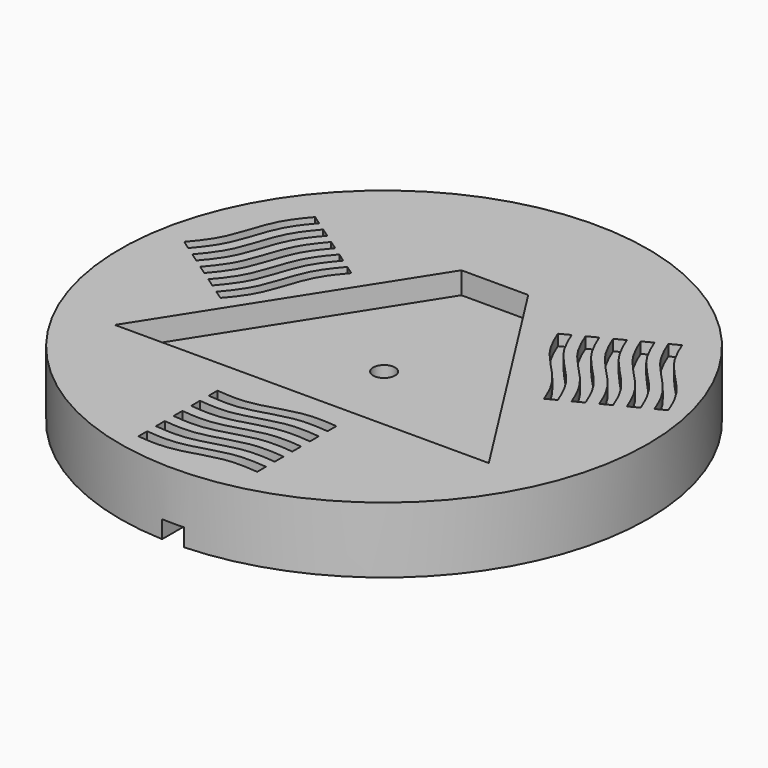
from build123d import *

# Parameters (mm, degrees)
F0_R     = 76.2
F0_R_2   = 3.175
F1_DEPTH = 19.05
F3_DEPTH = 6.35
F5_DEPTH = 3.175
F6_W     = 6.35
F6_H     = 80.5422738194
F7_DEPTH = 5.08


with BuildPart() as f1:
    # F0 (on Top) → F1 (new body)
    with BuildSketch(Plane.XY):
        Circle(F0_R)
        Circle(F0_R_2, mode=Mode.SUBTRACT)
    extrude(amount=F1_DEPTH)

    # F2 (on face) → F3 (cut)
    with BuildSketch(Plane.XY.offset(19.05)):
        Polygon((9.652, 39.9661194726), (-9.652, 39.9661194726), (-53.975, -29.6756364717), (53.975, -29.6756364717), align=None)
    extrude(amount=-F3_DEPTH, mode=Mode.SUBTRACT)

    # F4 (on face) → F5 (cut)
    with BuildSketch(Plane.XY.offset(19.05)):
        with BuildLine():
            Line((-15.875, -65.6446859638), (-15.875, -68.8196859638))
            add(Edge.make_bspline(
                [(-15.875, -68.8196859638), (-12.8374470565, -69.104257774), (-6.2388655329, -69.722442979), (6.2388655329, -64.7419289487), (12.8374470565, -65.3601141536), (15.875, -65.6446859638)],
                knots=[0, 0, 0, 0, 0.3152252549, 0.6847747451, 1, 1, 1, 1], degree=3))
            Line((15.875, -65.6446859638), (15.875, -62.4696859638))
            add(Edge.make_bspline(
                [(-15.875, -65.6446859638), (-12.8374470565, -65.929257774), (-6.2388655329, -66.547442979), (6.2388655329, -61.5669289487), (12.8374470565, -62.1851141536), (15.875, -62.4696859638)],
                knots=[0, 0, 0, 0, 0.3152252549, 0.6847747451, 1, 1, 1, 1], degree=3))
        make_face()
        with BuildLine():
            Line((-15.875, -59.2946859638), (-15.875, -62.4696859638))
            add(Edge.make_bspline(
                [(-15.875, -62.4696859638), (-12.8374470565, -62.754257774), (-6.2388655329, -63.372442979), (6.2388655329, -58.3919289487), (12.8374470565, -59.0101141536), (15.875, -59.2946859638)],
                knots=[0, 0, 0, 0, 0.3152252549, 0.6847747451, 1, 1, 1, 1], degree=3))
            Line((15.875, -59.2946859638), (15.875, -56.1196859638))
            add(Edge.make_bspline(
                [(-15.875, -59.2946859638), (-12.8374470565, -59.579257774), (-6.2388655329, -60.197442979), (6.2388655329, -55.2169289487), (12.8374470565, -55.8351141536), (15.875, -56.1196859638)],
                knots=[0, 0, 0, 0, 0.3152252549, 0.6847747451, 1, 1, 1, 1], degree=3))
        make_face()
        with BuildLine():
            Line((-15.875, -52.9446859638), (-15.875, -56.1196859638))
            add(Edge.make_bspline(
                [(-15.875, -56.1196859638), (-12.8374470565, -56.404257774), (-6.2388655329, -57.022442979), (6.2388655329, -52.0419289487), (12.8374470565, -52.6601141536), (15.875, -52.9446859638)],
                knots=[0, 0, 0, 0, 0.3152252549, 0.6847747451, 1, 1, 1, 1], degree=3))
            Line((15.875, -52.9446859638), (15.875, -49.7696859638))
            add(Edge.make_bspline(
                [(-15.875, -52.9446859638), (-12.8374470565, -53.229257774), (-6.2388655329, -53.847442979), (6.2388655329, -48.8669289487), (12.8374470565, -49.4851141536), (15.875, -49.7696859638)],
                knots=[0, 0, 0, 0, 0.3152252549, 0.6847747451, 1, 1, 1, 1], degree=3))
        make_face()
        with BuildLine():
            Line((-15.875, -46.5946859638), (-15.875, -49.7696859638))
            add(Edge.make_bspline(
                [(-15.875, -49.7696859638), (-12.8374470565, -50.054257774), (-6.2388655329, -50.672442979), (6.2388655329, -45.6919289487), (12.8374470565, -46.3101141536), (15.875, -46.5946859638)],
                knots=[0, 0, 0, 0, 0.3152252549, 0.6847747451, 1, 1, 1, 1], degree=3))
            Line((15.875, -46.5946859638), (15.875, -43.4196859638))
            add(Edge.make_bspline(
                [(-15.875, -46.5946859638), (-12.8374470565, -46.879257774), (-6.2388655329, -47.497442979), (6.2388655329, -42.5169289487), (12.8374470565, -43.1351141536), (15.875, -43.4196859638)],
                knots=[0, 0, 0, 0, 0.3152252549, 0.6847747451, 1, 1, 1, 1], degree=3))
        make_face()
        with BuildLine():
            Line((-15.875, -40.2446859638), (-15.875, -43.4196859638))
            add(Edge.make_bspline(
                [(-15.875, -43.4196859638), (-12.8374470565, -43.704257774), (-6.2388655329, -44.322442979), (6.2388655329, -39.3419289487), (12.8374470565, -39.9601141536), (15.875, -40.2446859638)],
                knots=[0, 0, 0, 0, 0.3152252549, 0.6847747451, 1, 1, 1, 1], degree=3))
            Line((15.875, -40.2446859638), (15.875, -37.0696859638))
            add(Edge.make_bspline(
                [(-15.875, -40.2446859638), (-12.8374470565, -40.529257774), (-6.2388655329, -41.147442979), (6.2388655329, -36.1669289487), (12.8374470565, -36.7851141536), (15.875, -37.0696859638)],
                knots=[0, 0, 0, 0, 0.3152252549, 0.6847747451, 1, 1, 1, 1], degree=3))
        make_face()
        with BuildLine():
            Line((-28.1521697055, 23.3813101817), (-30.7611201571, 25.1907306804))
            add(Edge.make_bspline(
                [(-30.7611201571, 25.1907306804), (-32.7260475003, 22.8568991665), (-36.9945272613, 17.7870360912), (-40.0129675888, 4.6955002553), (-44.2814473498, -0.37436282), (-46.246374693, -2.7081943339)],
                knots=[0, 0, 0, 0, 0.3152252549, 0.6847747451, 1, 1, 1, 1], degree=3))
            Line((-46.246374693, -2.7081943339), (-43.6374242415, -4.5176148327))
            add(Edge.make_bspline(
                [(-28.1521697055, 23.3813101817), (-30.1170970487, 21.0474786677), (-34.3855768097, 15.9776155925), (-37.4040171373, 2.8860797565), (-41.6724968983, -2.1837833187), (-43.6374242415, -4.5176148327)],
                knots=[0, 0, 0, 0, 0.3152252549, 0.6847747451, 1, 1, 1, 1], degree=3))
        make_face()
        with BuildLine():
            Line((-33.3700706086, 27.0001511792), (-35.9790210602, 28.8095716779))
            add(Edge.make_bspline(
                [(-35.9790210602, 28.8095716779), (-37.9439484034, 26.475740164), (-42.2124281644, 21.4058770887), (-45.2308684919, 8.3143412528), (-49.4993482529, 3.2444781775), (-51.4642755961, 0.9106466636)],
                knots=[0, 0, 0, 0, 0.3152252549, 0.6847747451, 1, 1, 1, 1], degree=3))
            Line((-51.4642755961, 0.9106466636), (-48.8553251446, -0.8987738352))
            add(Edge.make_bspline(
                [(-33.3700706086, 27.0001511792), (-35.3349979518, 24.6663196652), (-39.6034777128, 19.59645659), (-42.6219180404, 6.504920754), (-46.8903978014, 1.4350576788), (-48.8553251446, -0.8987738352)],
                knots=[0, 0, 0, 0, 0.3152252549, 0.6847747451, 1, 1, 1, 1], degree=3))
        make_face()
        with BuildLine():
            Line((-38.5879715117, 30.6189921767), (-41.1969219633, 32.4284126754))
            add(Edge.make_bspline(
                [(-41.1969219633, 32.4284126754), (-43.1618493065, 30.0945811615), (-47.4303290675, 25.0247180862), (-50.4487693951, 11.9331822503), (-54.7172491561, 6.863319175), (-56.6821764993, 4.5294876611)],
                knots=[0, 0, 0, 0, 0.3152252549, 0.6847747451, 1, 1, 1, 1], degree=3))
            Line((-56.6821764993, 4.5294876611), (-54.0732260477, 2.7200671623))
            add(Edge.make_bspline(
                [(-38.5879715117, 30.6189921767), (-40.5528988549, 28.2851606627), (-44.8213786159, 23.2152975875), (-47.8398189435, 10.1237617515), (-52.1082987045, 5.0538986763), (-54.0732260477, 2.7200671623)],
                knots=[0, 0, 0, 0, 0.3152252549, 0.6847747451, 1, 1, 1, 1], degree=3))
        make_face()
        with BuildLine():
            Line((-43.8058724149, 34.2378331742), (-46.4148228664, 36.0472536729))
            add(Edge.make_bspline(
                [(-46.4148228664, 36.0472536729), (-48.3797502096, 33.713422159), (-52.6482299706, 28.6435590837), (-55.6666702982, 15.5520232478), (-59.9351500592, 10.4821601725), (-61.9000774024, 8.1483286586)],
                knots=[0, 0, 0, 0, 0.3152252549, 0.6847747451, 1, 1, 1, 1], degree=3))
            Line((-61.9000774024, 8.1483286586), (-59.2911269508, 6.3389081598))
            add(Edge.make_bspline(
                [(-43.8058724149, 34.2378331742), (-45.7707997581, 31.9040016602), (-50.0392795191, 26.834138585), (-53.0577198466, 13.742602749), (-57.3261996076, 8.6727396738), (-59.2911269508, 6.3389081598)],
                knots=[0, 0, 0, 0, 0.3152252549, 0.6847747451, 1, 1, 1, 1], degree=3))
        make_face()
        with BuildLine():
            Line((-49.023773318, 37.8566741717), (-51.6327237695, 39.6660946704))
            add(Edge.make_bspline(
                [(-51.6327237695, 39.6660946704), (-53.5976511127, 37.3322631565), (-57.8661308737, 32.2624000812), (-60.8845712013, 19.1708642453), (-65.1530509623, 14.10100117), (-67.1179783055, 11.7671696561)],
                knots=[0, 0, 0, 0, 0.3152252549, 0.6847747451, 1, 1, 1, 1], degree=3))
            Line((-67.1179783055, 11.7671696561), (-64.5090278539, 9.9577491573))
            add(Edge.make_bspline(
                [(-49.023773318, 37.8566741717), (-50.9887006612, 35.5228426577), (-55.2571804222, 30.4529795825), (-58.2756207497, 17.3614437465), (-62.5441005107, 12.2915806713), (-64.5090278539, 9.9577491573)],
                knots=[0, 0, 0, 0, 0.3152252549, 0.6847747451, 1, 1, 1, 1], degree=3))
        make_face()
        with BuildLine():
            Line((44.0766113698, 2.6281275656), (46.8972678449, 4.0857015944))
            add(Edge.make_bspline(
                [(46.8972678449, 4.0857015944), (45.7556051795, 6.914891471), (43.275531808, 13.0608386839), (33.1226071186, 21.859555227), (30.642533747, 28.0055024399), (29.5008710816, 30.8346923166)],
                knots=[0, 0, 0, 0, 0.3152252549, 0.6847747451, 1, 1, 1, 1], degree=3))
            Line((29.5008710816, 30.8346923166), (26.6802146065, 29.3771182877))
            add(Edge.make_bspline(
                [(44.0766113698, 2.6281275656), (42.9349487044, 5.4573174422), (40.4548753329, 11.6032646551), (30.3019506435, 20.4019811982), (27.8218772719, 26.5479284111), (26.6802146065, 29.3771182877)],
                knots=[0, 0, 0, 0, 0.3152252549, 0.6847747451, 1, 1, 1, 1], degree=3))
        make_face()
        with BuildLine():
            Line((49.71792432, 5.5432756232), (52.5385807951, 7.000849652))
            add(Edge.make_bspline(
                [(52.5385807951, 7.000849652), (51.3969181297, 9.8300395287), (48.9168447582, 15.9759867415), (38.7639200688, 24.7747032847), (36.2838466972, 30.9206504975), (35.1421840318, 33.7498403742)],
                knots=[0, 0, 0, 0, 0.3152252549, 0.6847747451, 1, 1, 1, 1], degree=3))
            Line((35.1421840318, 33.7498403742), (32.3215275567, 32.2922663454))
            add(Edge.make_bspline(
                [(49.71792432, 5.5432756232), (48.5762616546, 8.3724654998), (46.0961882831, 14.5184127127), (35.9432635937, 23.3171292558), (33.4631902221, 29.4630764687), (32.3215275567, 32.2922663454)],
                knots=[0, 0, 0, 0, 0.3152252549, 0.6847747451, 1, 1, 1, 1], degree=3))
        make_face()
        with BuildLine():
            Line((55.3592372702, 8.4584236808), (58.1798937453, 9.9159977096))
            add(Edge.make_bspline(
                [(58.1798937453, 9.9159977096), (57.0382310799, 12.7451875863), (54.5581577084, 18.8911347992), (44.405233019, 27.6898513423), (41.9251596474, 33.8357985552), (40.783496982, 36.6649884318)],
                knots=[0, 0, 0, 0, 0.3152252549, 0.6847747451, 1, 1, 1, 1], degree=3))
            Line((40.783496982, 36.6649884318), (37.9628405069, 35.207414403))
            add(Edge.make_bspline(
                [(55.3592372702, 8.4584236808), (54.2175746048, 11.2876135575), (51.7375012333, 17.4335607703), (41.5845765439, 26.2322773135), (39.1045031723, 32.3782245264), (37.9628405069, 35.207414403)],
                knots=[0, 0, 0, 0, 0.3152252549, 0.6847747451, 1, 1, 1, 1], degree=3))
        make_face()
        with BuildLine():
            Line((61.0005502204, 11.3735717385), (63.8212066955, 12.8311457673))
            add(Edge.make_bspline(
                [(63.8212066955, 12.8311457673), (62.6795440301, 15.6603356439), (60.1994706586, 21.8062828568), (50.0465459692, 30.6049993999), (47.5664725976, 36.7509466128), (46.4248099322, 39.5801364895)],
                knots=[0, 0, 0, 0, 0.3152252549, 0.6847747451, 1, 1, 1, 1], degree=3))
            Line((46.4248099322, 39.5801364895), (43.6041534571, 38.1225624606))
            add(Edge.make_bspline(
                [(61.0005502204, 11.3735717385), (59.858887555, 14.2027616151), (57.3788141835, 20.348708828), (47.2258894941, 29.1474253711), (44.7458161225, 35.293372584), (43.6041534571, 38.1225624606)],
                knots=[0, 0, 0, 0, 0.3152252549, 0.6847747451, 1, 1, 1, 1], degree=3))
        make_face()
        with BuildLine():
            Line((66.6418631706, 14.2887197961), (69.4625196457, 15.7462938249))
            add(Edge.make_bspline(
                [(69.4625196457, 15.7462938249), (68.3208569803, 18.5754837016), (65.8407836087, 24.7214309144), (55.6878589194, 33.5201474576), (53.2077855478, 39.6660946704), (52.0661228824, 42.4952845471)],
                knots=[0, 0, 0, 0, 0.3152252549, 0.6847747451, 1, 1, 1, 1], degree=3))
            Line((52.0661228824, 42.4952845471), (49.2454664073, 41.0377105183))
            add(Edge.make_bspline(
                [(66.6418631706, 14.2887197961), (65.5002005052, 17.1179096727), (63.0201271337, 23.2638568856), (52.8672024443, 32.0625734287), (50.3871290727, 38.2085206416), (49.2454664073, 41.0377105183)],
                knots=[0, 0, 0, 0, 0.3152252549, 0.6847747451, 1, 1, 1, 1], degree=3))
        make_face()
    extrude(amount=-F5_DEPTH, mode=Mode.SUBTRACT)

    # F6 (on face) → F7 (cut)
    with BuildSketch(Plane(origin=(0, 0, 0), x_dir=(1, 0, 0), z_dir=(0, 0, -1))):
        with Locations((0, 40.2711369097)):
            Rectangle(F6_W, F6_H)
    extrude(amount=-F7_DEPTH, mode=Mode.SUBTRACT)


solid = f1.part
